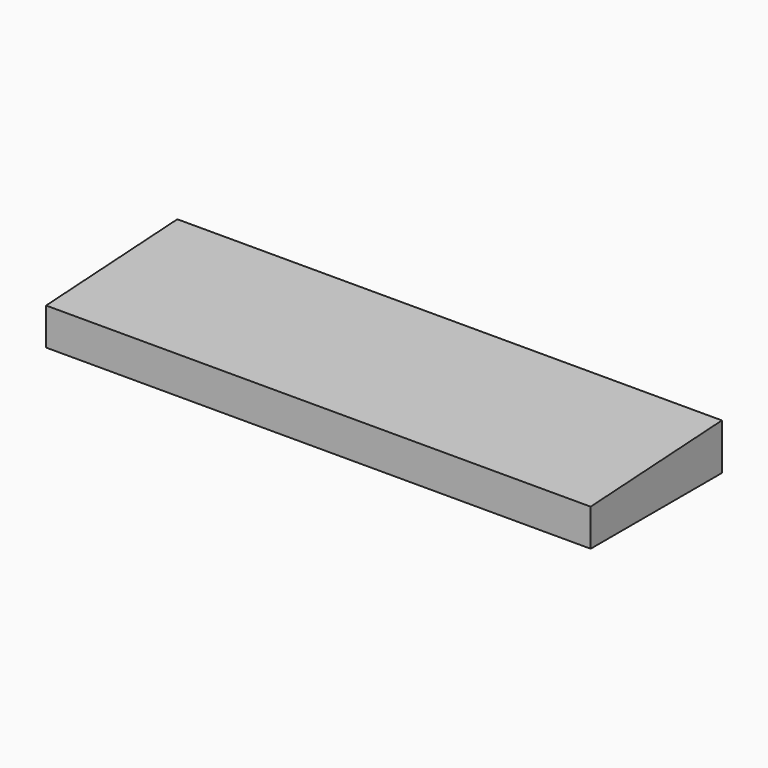
from build123d import *

# Parameters (mm, degrees)
F0_W     = 135.00001
F0_H     = 30.48
F1_DEPTH = 448.00012


with BuildPart() as f1:
    # F0 (on Right) → F1 (new body)
    with BuildSketch(Plane.YZ):
        Rectangle(F0_W, F0_H)
        Polygon((67.455739, 22.860002), (-67.500005, 15.24), (67.500005, 15.24), align=None)
    extrude(amount=F1_DEPTH)


solid = f1.part
